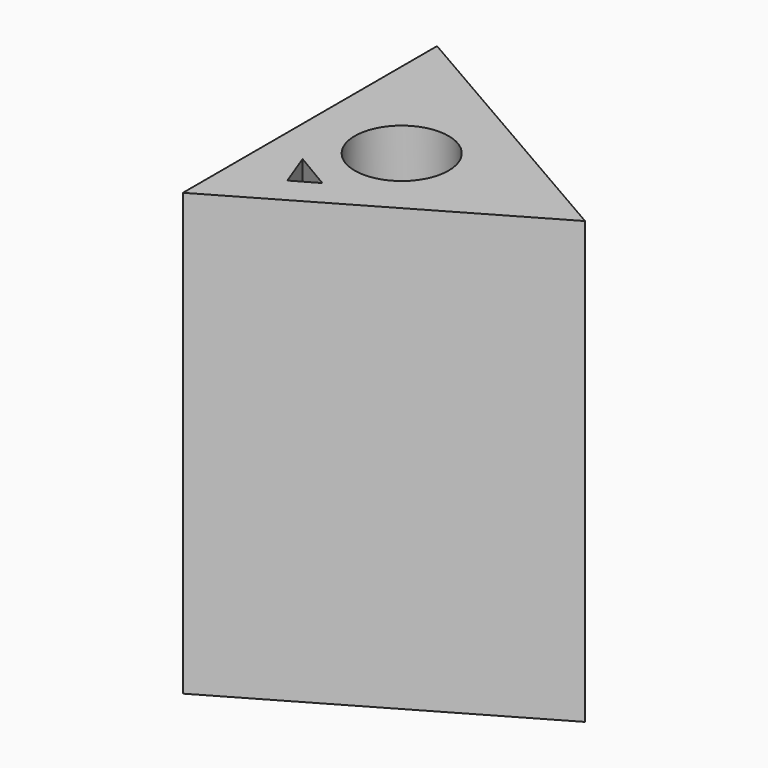
from build123d import *

# Parameters (mm, degrees)
F1_DEPTH = 52.88097
F2_R     = 5.629774
F3_DEPTH = 25.4
F4_W     = 21.416974
F4_H     = 30.958728
F5_DEPTH = 10.13054
F7_DEPTH = 25


with BuildPart() as f1:
    # F0 (on Top) → F1 (new body)
    with BuildSketch(Plane.XY):
        Polygon((-32.995568, -19.05), (0, 0), (-32.995568, 19.05), align=None)
    extrude(amount=F1_DEPTH)

    # F2 (on face) → F3 (cut)
    with BuildSketch(Plane.XY.offset(52.88097)):
        with Locations((-21.997045, 0)):
            Circle(F2_R)
    extrude(amount=-F3_DEPTH, mode=Mode.SUBTRACT)

    # F4 (on face) → F5 (cut)
    with BuildSketch(Plane(origin=(-32.995568, 0, 0), x_dir=(0, -1, 0), z_dir=(-1, 0, 0))):
        with Locations((0, 26.440485)):
            Rectangle(F4_W, F4_H)
    extrude(amount=-F5_DEPTH, mode=Mode.SUBTRACT)

    # F6 (on face) → F7 (cut)
    with BuildSketch(Plane.XY.offset(52.88097)):
        Polygon((-24.02568, -9.358168), (-28.524186, -6.694105), (-26.91254, -10.997219), align=None)
    extrude(amount=-F7_DEPTH, mode=Mode.SUBTRACT)


solid = f1.part
